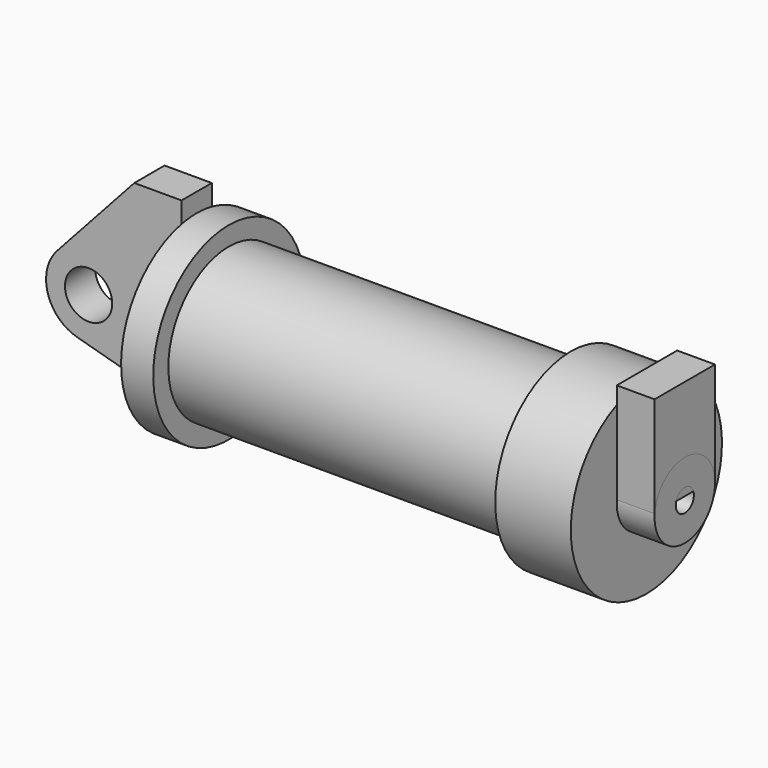
from build123d import *

# Parameters (mm, degrees)
F5_DEPTH = 5.08
F3_R     = 5.08
F3_R_2   = 1.524
F6_DEPTH = 5.08
F0_W     = 5.842
F0_H     = 12.7
F0_R     = 3.175
F7_DEPTH = 2.54


with BuildPart() as f1:
    # F0 (on Front) → F1 (revolve)
    with BuildSketch(Plane.XZ):
        Polygon((5.842, 12.7), (5.842, 0), (66.294, 0), (66.294, 12.7), (56.134, 12.7), (56.134, 10.16), (10.16, 10.16), (10.16, 12.7), align=None)
    revolve(axis=Axis((33.147, 0, 0), (-1, 0, 0)))

    # F4 (on face) → F5 (join)
    with BuildSketch(Plane.YZ.offset(66.294)):
        with BuildLine():
            Line((-4.978107, 11.683683), (-4.978107, 0.472536))
            Line((-4.978107, 0.472536), (5.171431, 0.472536))
            Line((5.171431, 0.472536), (5.171431, 11.599409))
            ThreePointArc((5.171431, 11.599409), (0.105447, 12.699562), (-4.978107, 11.683683))
        make_face()
        with BuildLine():
            Line((-4.978107, 14.005254), (-4.978107, 11.683683))
            ThreePointArc((-4.978107, 11.683683), (0.105447, 12.699562), (5.171431, 11.599409))
            Line((5.171431, 11.599409), (5.171431, 14.005254))
            Line((5.171431, 14.005254), (-4.978107, 14.005254))
        make_face()
    extrude(amount=F5_DEPTH)

    # F0 (on Front) → F7 (join, symmetric)
    with BuildSketch(Plane.XZ):
        with BuildLine():
            Line((-0.9398, 0), (0, 0))
            Line((0, 0), (0, 12.7))
            Line((0, 12.7), (5.842, 12.7))
            Line((5.842, 12.7), (5.842, 15.24))
            Line((5.842, 15.24), (-0.508, 15.24))
            Line((-0.508, 15.24), (-10.88063, 3.847543))
            ThreePointArc((-10.88063, 3.847543), (-4.591961, 5.329721), (-0.9398, 0))
        make_face()
        with Locations((2.921, 6.35)):
            Rectangle(F0_W, F0_H)
        with BuildLine():
            Line((5.842, 0), (0, 0))
            Line((0, 0), (-0.9398, 0))
            ThreePointArc((-0.9398, 0), (-3.195791, -4.549339), (-8.182663, -5.506983))
            Line((-8.182663, -5.506983), (5.842, -9.398))
            Line((5.842, -9.398), (5.842, 0))
        make_face()
        with BuildLine():
            ThreePointArc((-8.182663, -5.506983), (-3.195791, -4.549339), (-0.9398, 0))
            ThreePointArc((-0.9398, 0), (-4.591961, 5.329721), (-10.88063, 3.847543))
            ThreePointArc((-10.88063, 3.847543), (-12.145978, -1.583727), (-8.182663, -5.506983))
        make_face()
        with Locations((-6.6548, 0)):
            Circle(F0_R, mode=Mode.SUBTRACT)
    extrude(amount=F7_DEPTH, both=True)


with BuildPart() as f6:
    # F3 (on face) → F6 (new body)
    with BuildSketch(Plane.YZ.offset(66.294)):
        with Locations((0.106723, 0)):
            Circle(F3_R)
        with Locations((0.106723, 0)):
            Circle(F3_R_2, mode=Mode.SUBTRACT)
    extrude(amount=F6_DEPTH)


solid = Compound([f1.part, f6.part])
